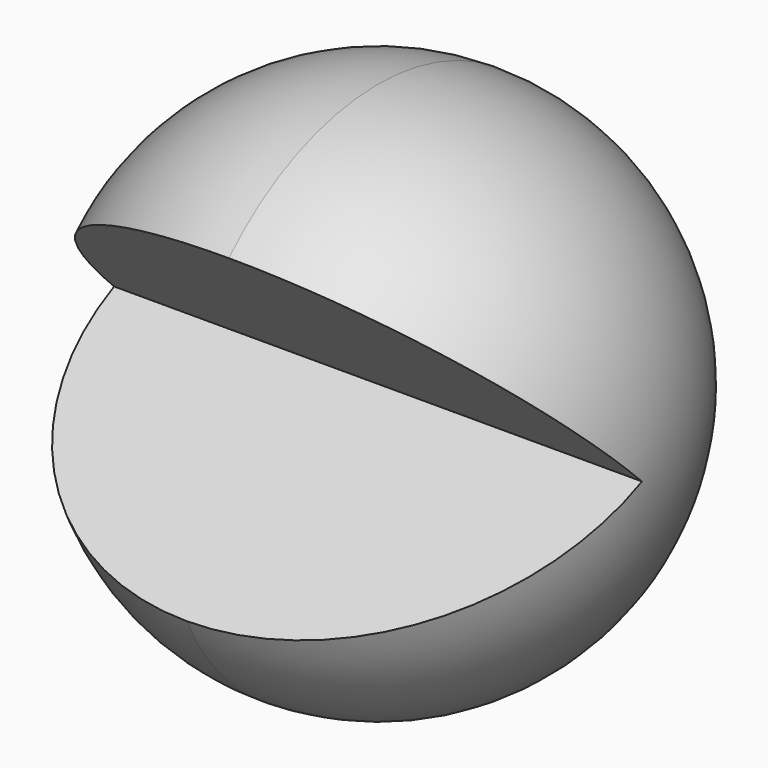
from build123d import *

# Parameters (mm, degrees)
F1_ANGLE_BACK = 155
F1_ANGLE      = 290


with BuildPart() as f1:
    # F0 (on Top) → F1 (revolve)
    with BuildSketch(Plane.XY, mode=Mode.PRIVATE) as f1_sk:
        with BuildLine():
            ThreePointArc((-0.2432806702, 50.8), (-36.1643051545, 35.9210244843), (-51.0432806702, 0))
            Line((-51.0432806702, 0), (50.5567193298, 0))
            ThreePointArc((50.5567193298, 0), (35.6777438141, 35.9210244843), (-0.2432806702, 50.8))
        make_face()
    revolve(f1_sk.sketch.rotate(Axis((-0.2432806702, 0, 0), (1, 0, 0)), -F1_ANGLE_BACK), axis=Axis((-0.2432806702, 0, 0), (1, 0, 0)), revolution_arc=F1_ANGLE)


solid = f1.part
